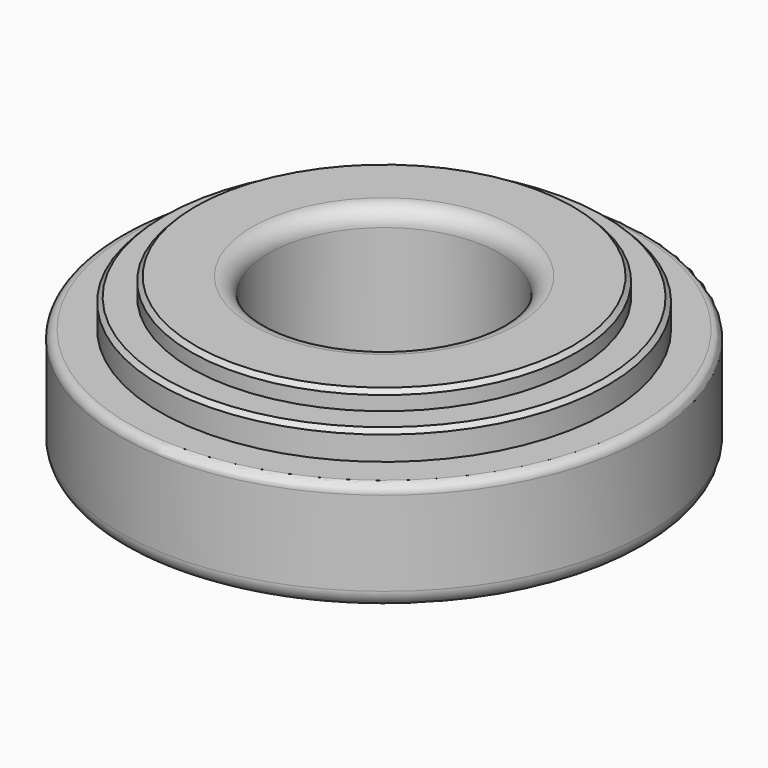
from build123d import *

# Parameters (mm, degrees)
F2_R    = 4
F3_R    = 2
F4_SIZE = 1


with BuildPart() as f1:
    # F0 (on Front) → F1 (revolve)
    with BuildSketch(Plane.XZ):
        Polygon((44.75, 18.25), (26.75, 18.25), (26.75, -18.25), (61.25, -18.25), (61.25, 7.38), (52, 7.38), (52, 13.95), (44.75, 13.95), align=None)
    revolve(axis=Axis((0, 0, -12.351525), (0, 0, -1)))

    # F2
    f2_edges = [f1.edges().sort_by_distance(p)[0] for p in [
        (-26.75, 0, 18.25),
        (-61.25, 0, -18.25),
    ]]
    fillet(f2_edges, radius=F2_R)

    # F3
    f3_edges = [f1.edges().sort_by_distance(p)[0] for p in [
        (-61.25, 0, 7.38),
    ]]
    fillet(f3_edges, radius=F3_R)

    # F4
    f4_edges = [f1.edges().sort_by_distance(p)[0] for p in [
        (-44.75, 0, 18.25),
        (-52, 0, 13.95),
        (-26.75, 0, -18.25),
    ]]
    chamfer(f4_edges, length=F4_SIZE)


solid = f1.part
